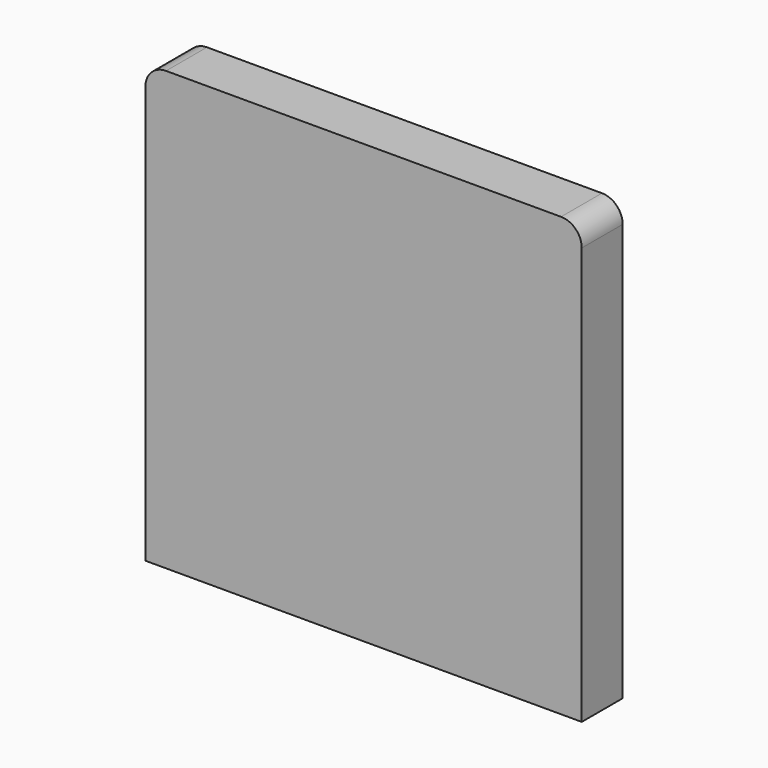
from build123d import *

# Parameters (mm, degrees)
F0_W     = 36.195
F0_H     = 36.322
F1_DEPTH = 2.1209
F2_R     = 1.716989


with BuildPart() as f1:
    # F0 (on Front) → F1 (new body, symmetric)
    with BuildSketch(Plane.XZ):
        Rectangle(F0_W, F0_H)
    extrude(amount=F1_DEPTH, both=True)

    # F2
    f2_edges = [f1.edges().sort_by_distance(p)[0] for p in [
        (-18.0975, 0, 18.161),
        (18.0975, 0, 18.161),
    ]]
    fillet(f2_edges, radius=F2_R)


solid = f1.part
